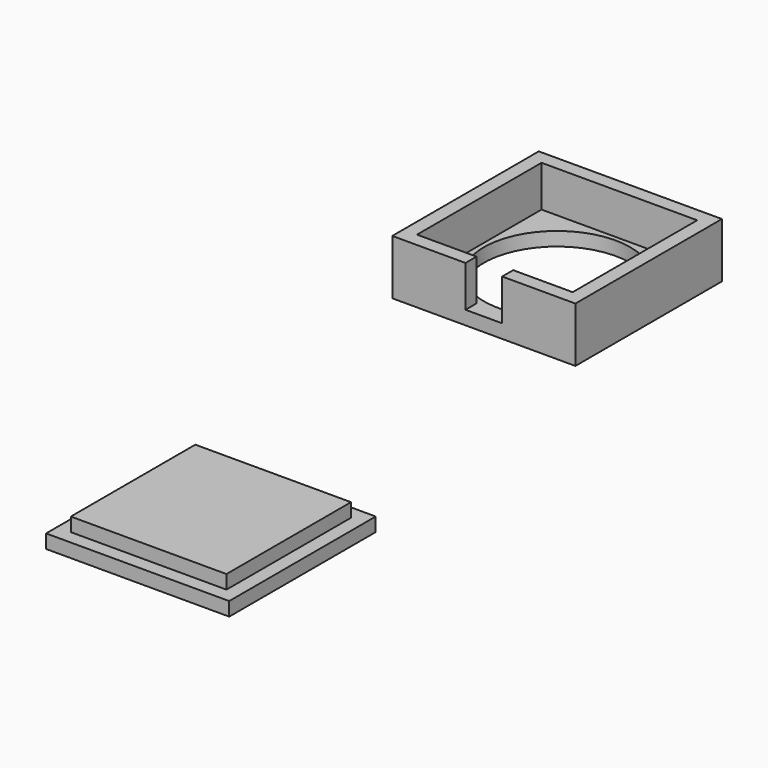
from build123d import *

# Parameters (mm, degrees)
F0_W     = 20
F0_H     = 20
F1_DEPTH = 6
F2_T     = -1.5
F3_R     = 8
F4_DEPTH = 1.5
F5_DEPTH = 1.5
F6_DEPTH = 3
F7_W     = 4
F7_H     = 4.5
F8_DEPTH = 1.5


with BuildPart() as f1:
    # F0 (on Top) → F1 (new body)
    with BuildSketch(Plane.XY):
        with Locations((31.10723, -25.829384)):
            Rectangle(F0_W, F0_H)
    extrude(amount=F1_DEPTH)

    # F2
    f2_openings = [f1.faces().sort_by_distance(p)[0] for p in [
        (31.10723, -25.829384, 6),
    ]]
    offset(amount=F2_T, openings=f2_openings)

    # F3 (on face) → F4 (cut, through all)
    with BuildSketch(Plane.XY.offset(1.5)):
        with Locations((31.10723, -25.829384)):
            Circle(F3_R)
    extrude(amount=-F4_DEPTH, mode=Mode.SUBTRACT)

    # F7 (on face) → F8 (cut, through all)
    with BuildSketch(Plane.XZ.offset(35.829384)):
        with Locations((31.10723, 3.75)):
            Rectangle(F7_W, F7_H)
    extrude(amount=-F8_DEPTH, mode=Mode.SUBTRACT)


with BuildPart() as f5:
    # F0 (on Top) → F5 (new body)
    with BuildSketch(Plane.XY):
        with Locations((36.975507, -80.423949)):
            Rectangle(F0_W, F0_H)
        Polygon((28.475507, -71.923949), (45.475507, -71.923949), (45.475507, -88.923949), (28.475507, -88.923949), (28.475507, -83.923949), align=None, mode=Mode.SUBTRACT)
        Polygon((45.475507, -88.923949), (45.475507, -71.923949), (28.475507, -71.923949), (28.475507, -83.923949), (28.475507, -88.923949), align=None)
    extrude(amount=F5_DEPTH)

    # F0 (on Top) → F6 (join)
    with BuildSketch(Plane.XY):
        Polygon((45.475507, -88.923949), (45.475507, -71.923949), (28.475507, -71.923949), (28.475507, -83.923949), (28.475507, -88.923949), align=None)
    extrude(amount=F6_DEPTH)


solid = Compound([f1.part, f5.part])
